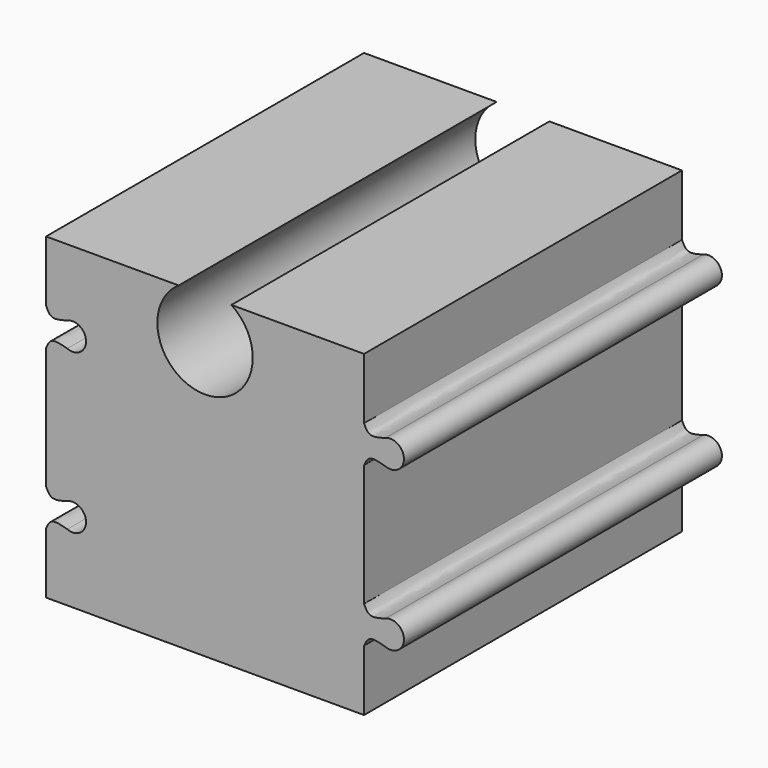
from build123d import *

# Parameters (mm, degrees)
F1_DEPTH = 25


with BuildPart() as f1:
    # F0 (on Front) → F1 (new body)
    with BuildSketch(Plane.XZ):
        with BuildLine():
            Line((10, 6.1603618775), (10, 3.8366899256))
            add(Edge.make_bspline(
                [(10, 3.8366899256), (10.0936781203, 4.0445753388), (10.3108394793, 4.51212527), (10.9698499849, 4.3223411165), (11.3372663036, 4.2170529605)],
                knots=[0, 0, 0, 0, 0.4440621229, 1, 1, 1, 1], degree=3))
            ThreePointArc((11.3372663036, 4.2170529605), (12.5130621989, 4.9985259015), (11.3372663036, 5.7799988426))
            add(Edge.make_bspline(
                [(10, 6.1603618775), (10.0936781203, 5.9524764643), (10.3108394793, 5.4849265331), (10.9698499849, 5.6747106866), (11.3372663036, 5.7799988426)],
                knots=[0, 0, 0, 0, 0.4440621229, 1, 1, 1, 1], degree=3))
        make_face()
        with BuildLine():
            Line((10, -3.8366899256), (10, -6.1603618775))
            add(Edge.make_bspline(
                [(10, -6.1603618775), (10.0936781203, -5.9524764643), (10.3108394793, -5.4849265331), (10.9698499849, -5.6747106866), (11.3372663036, -5.7799988426)],
                knots=[0, 0, 0, 0, 0.4440621229, 1, 1, 1, 1], degree=3))
            ThreePointArc((11.3372663036, -5.7799988426), (12.5130621989, -4.9985259015), (11.3372663036, -4.2170529605))
            add(Edge.make_bspline(
                [(10, -3.8366899256), (10.0936781203, -4.0445753388), (10.3108394793, -4.51212527), (10.9698499849, -4.3223411165), (11.3372663036, -4.2170529605)],
                knots=[0, 0, 0, 0, 0.4440621229, 1, 1, 1, 1], degree=3))
        make_face()
        with BuildLine():
            Line((-10, 3.8430606946), (-10, 3.8381640241))
            add(Edge.make_bspline(
                [(-10, 3.8381640241), (-9.90643671, 4.045794612), (-9.6954058964, 4.5141059422), (-9.0350399336, 4.3239183047), (-8.6672638701, 4.2185270589)],
                knots=[0, 0, 0, 0, 0.4435177928, 1, 1, 1, 1], degree=3))
            ThreePointArc((-8.6672638701, 4.2185270589), (-8.3359284415, 4.152411431), (-8.0050909806, 4.2209753942))
            ThreePointArc((-8.0050909806, 4.2209753942), (-8.3364264093, 4.1548597663), (-8.6672638701, 4.2234237295))
            add(Edge.make_bspline(
                [(-10, 3.8430606946), (-9.90643671, 4.0506912825), (-9.6954058964, 4.5190026128), (-9.0350399336, 4.3288149753), (-8.6672638701, 4.2234237295)],
                knots=[0, 0, 0, 0, 0.4435177928, 1, 1, 1, 1], degree=3))
        make_face()
        with BuildLine():
            Line((-10, -10), (10, -10))
            Line((10, -10), (10, -6.1603618775))
            Line((10, -6.1603618775), (10, -3.8366899256))
            Line((10, -3.8366899256), (10, 3.8366899256))
            Line((10, 3.8366899256), (10, 6.1603618775))
            Line((10, 6.1603618775), (10, 10))
            Line((10, 10), (1.6583123952, 10))
            ThreePointArc((1.6583123952, 10), (2.6433820369, 8.9186371655), (3, 7.5))
            ThreePointArc((3, 7.5), (-1.4186371655, 4.8566179631), (-1.6583123952, 10))
            Line((-1.6583123952, 10), (-10, 10))
            Line((-10, 10), (-10, 6.1618359759))
            add(Edge.make_bspline(
                [(-10, 6.1618359759), (-9.90643671, 5.954205388), (-9.6954058964, 5.4858940578), (-9.0350399336, 5.6760816953), (-8.6672638701, 5.7814729411)],
                knots=[0, 0, 0, 0, 0.4435177928, 1, 1, 1, 1], degree=3))
            ThreePointArc((-8.6672638701, 5.7814729411), (-7.5530384064, 5.3335370432), (-8.0050909806, 4.2209753942))
            ThreePointArc((-8.0050909806, 4.2209753942), (-8.3359284415, 4.152411431), (-8.6672638701, 4.2185270589))
            add(Edge.make_bspline(
                [(-10, 3.8381640241), (-9.90643671, 4.045794612), (-9.6954058964, 4.5141059422), (-9.0350399336, 4.3239183047), (-8.6672638701, 4.2185270589)],
                knots=[0, 0, 0, 0, 0.4435177928, 1, 1, 1, 1], degree=3))
            Line((-10, 3.8381640241), (-10, -3.8430606946))
            add(Edge.make_bspline(
                [(-10, -3.8430606946), (-9.90643671, -4.0506912825), (-9.6954058964, -4.5190026128), (-9.0350399336, -4.3288149753), (-8.6672638701, -4.2234237295)],
                knots=[0, 0, 0, 0, 0.4435177928, 1, 1, 1, 1], degree=3))
            ThreePointArc((-8.6672638701, -4.2234237295), (-7.4856981505, -5.0024483353), (-8.6672638701, -5.7814729411))
            add(Edge.make_bspline(
                [(-10, -6.1618359759), (-9.90643671, -5.954205388), (-9.6954058964, -5.4858940578), (-9.0350399336, -5.6760816953), (-8.6672638701, -5.7814729411)],
                knots=[0, 0, 0, 0, 0.4435177928, 1, 1, 1, 1], degree=3))
            Line((-10, -6.1618359759), (-10, -10))
        make_face()
    extrude(amount=F1_DEPTH)


solid = f1.part
